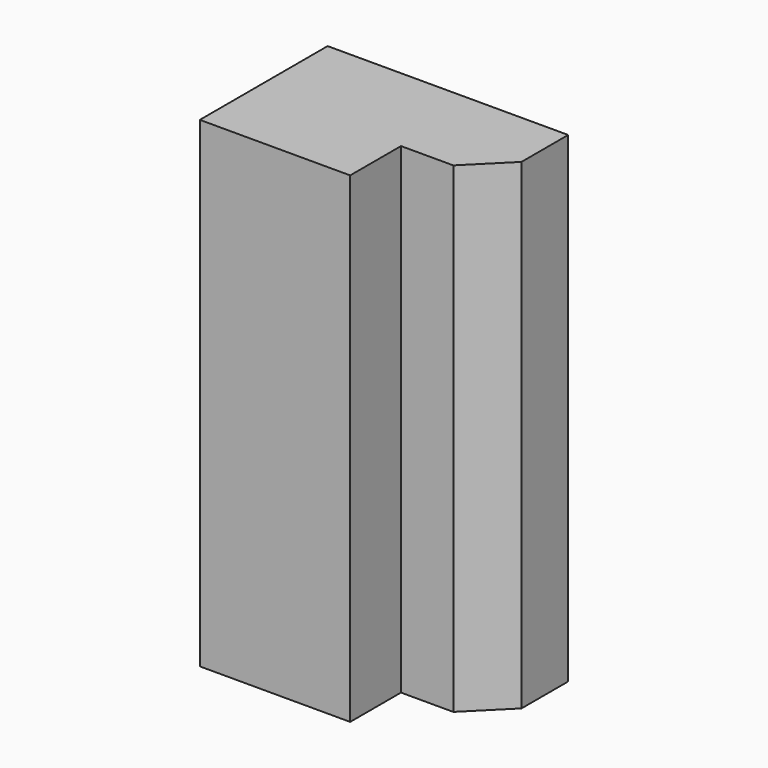
from build123d import *

# Parameters (mm, degrees)
PAD_DEPTH    = 12.7
CHAMFER_SIZE = 1


with BuildPart() as part:
    # Sketch → Pad (new body)
    with BuildSketch(Plane.XY):
        Polygon((-6.35, 0), (-6.35, 4.2164), (0, 4.2164), (0, 1.6764), (-2.38125, 1.6764), (-2.38125, 0), align=None)
    extrude(amount=PAD_DEPTH)

    # Chamfer
    chamfer_edges = [part.edges().sort_by_distance(p)[0] for p in [
        (0, 1.6764, 6.35),
    ]]
    chamfer(chamfer_edges, length=CHAMFER_SIZE)


solid = part.part
